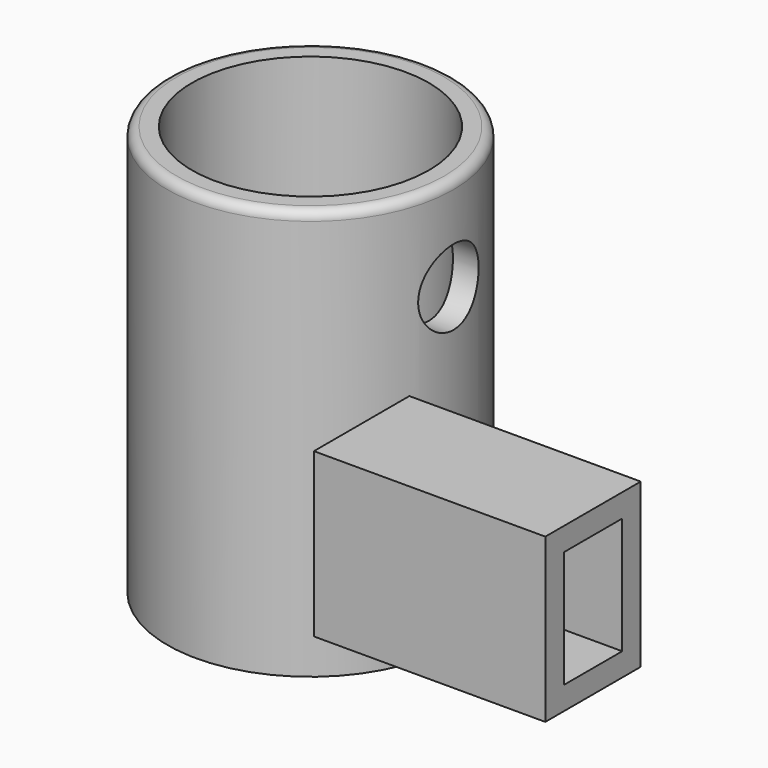
from build123d import *

# Parameters (mm, degrees)
F0_R      = 15.7
F1_DEPTH  = 5
F2_R      = 15.7
F2_R_2    = 13
F3_DEPTH  = 40
F4_W      = 10
F4_H      = 10
F5_DEPTH  = 25.4
F6_R      = 1
F8_R      = 4.146838
F9_DEPTH  = 25.4
F10_W     = 13.092702
F10_H     = 17.904548
F11_DEPTH = 25.4
F12_T     = -2.54


with BuildPart() as f1:
    # F0 (on Top) → F1 (new body)
    with BuildSketch(Plane.XY):
        Circle(F0_R)
    extrude(amount=F1_DEPTH)

    # F2 (on face) → F3 (join)
    with BuildSketch(Plane.XY.offset(5)):
        Circle(F2_R)
        Circle(F2_R_2, mode=Mode.SUBTRACT)
    extrude(amount=F3_DEPTH)

    # F4 (on face) → F5 (cut)
    with BuildSketch(Plane.XY.offset(5)):
        Rectangle(F4_W, F4_H)
    extrude(amount=-F5_DEPTH, mode=Mode.SUBTRACT)

    # F6
    f6_edges = [f1.edges().sort_by_distance(p)[0] for p in [
        (-15.7, 0, 45),
    ]]
    fillet(f6_edges, radius=F6_R)

    # F8 (on offset) → F9 (cut)
    with BuildSketch(Plane.YZ.offset(25.4)):
        with Locations((0, 34.600358)):
            Circle(F8_R)
    extrude(amount=-F9_DEPTH, mode=Mode.SUBTRACT)


with BuildPart() as f11:
    # F10 (on offset) → F11 (new body)
    with BuildSketch(Plane.YZ.offset(25.4)):
        with Locations((-24.727923, 25.658214)):
            Rectangle(F10_W, F10_H)
    extrude(amount=F11_DEPTH)

    # F12
    f12_openings = [f11.faces().sort_by_distance(p)[0] for p in [
        (50.8, -24.727923, 25.658214),
    ]]
    offset(amount=F12_T, openings=f12_openings)


solid = Compound([f1.part, f11.part])
